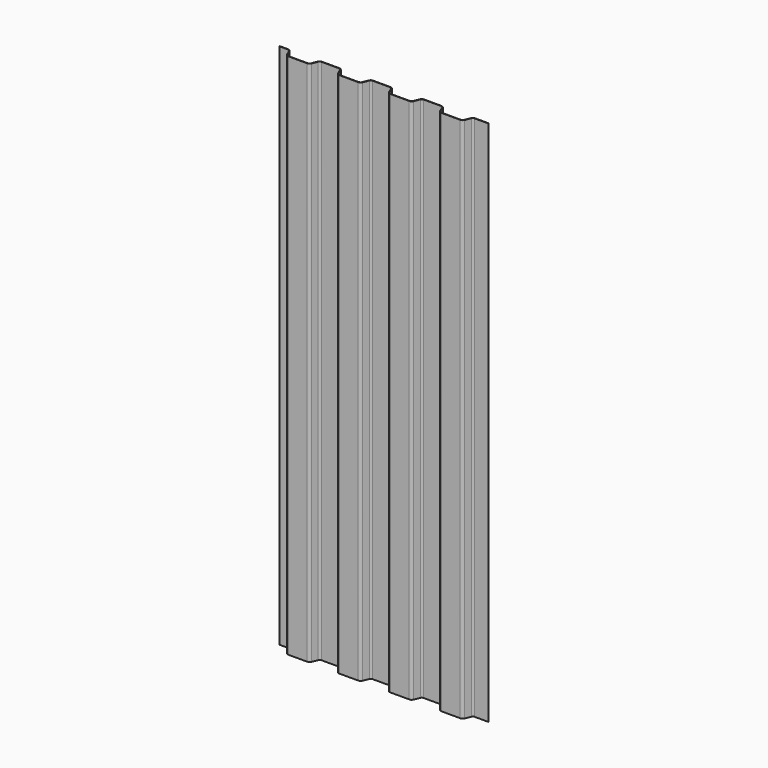
from build123d import *

# Parameters (mm, degrees)
F1_DEPTH = 2580


with BuildPart() as f1:
    # F0 (on Top) → F1 (new body)
    with BuildSketch(Plane.XY):
        with BuildLine():
            Line((42.968165, 45.6), (0, 45.6))
            Line((0, 45.6), (0, 43.6))
            Line((0, 43.6), (42.968165, 43.6))
            ThreePointArc((42.968165, 43.6), (49.362813, 41.658163), (53.597919, 36.488431))
            Line((53.597919, 36.488431), (64.704775, 9.585159))
            ThreePointArc((64.704775, 9.585159), (70.412961, 2.617259), (79.031835, 0))
            Line((79.031835, 0), (170.968165, 0))
            ThreePointArc((170.968165, 0), (179.587039, 2.617259), (185.295225, 9.585159))
            Line((185.295225, 9.585159), (196.402081, 36.488431))
            ThreePointArc((196.402081, 36.488431), (200.637187, 41.658163), (207.031835, 43.6))
            Line((207.031835, 43.6), (292.968165, 43.6))
            ThreePointArc((292.968165, 43.6), (299.362813, 41.658163), (303.597919, 36.488431))
            Line((303.597919, 36.488431), (314.704775, 9.585159))
            ThreePointArc((314.704775, 9.585159), (320.412961, 2.617259), (329.031835, 0))
            Line((329.031835, 0), (420.968165, 0))
            ThreePointArc((420.968165, 0), (429.587039, 2.617259), (435.295225, 9.585159))
            Line((435.295225, 9.585159), (446.402081, 36.488431))
            ThreePointArc((446.402081, 36.488431), (450.637187, 41.658163), (457.031835, 43.6))
            Line((457.031835, 43.6), (542.968165, 43.6))
            ThreePointArc((542.968165, 43.6), (549.362813, 41.658163), (553.597919, 36.488431))
            Line((553.597919, 36.488431), (564.704775, 9.585159))
            ThreePointArc((564.704775, 9.585159), (570.412961, 2.617259), (579.031835, 0))
            Line((579.031835, 0), (670.968165, 0))
            ThreePointArc((670.968165, 0), (679.587039, 2.617259), (685.295225, 9.585159))
            Line((685.295225, 9.585159), (696.402081, 36.488431))
            ThreePointArc((696.402081, 36.488431), (700.637187, 41.658163), (707.031835, 43.6))
            Line((707.031835, 43.6), (792.968165, 43.6))
            ThreePointArc((792.968165, 43.6), (799.362813, 41.658163), (803.597919, 36.488431))
            Line((803.597919, 36.488431), (814.704775, 9.585159))
            ThreePointArc((814.704775, 9.585159), (820.412961, 2.617259), (829.031835, 0))
            Line((829.031835, 0), (920.968165, 0))
            ThreePointArc((920.968165, 0), (929.587039, 2.617259), (935.295225, 9.585159))
            Line((935.295225, 9.585159), (946.402081, 36.488431))
            ThreePointArc((946.402081, 36.488431), (950.637187, 41.658163), (957.031835, 43.6))
            Line((957.031835, 43.6), (1024, 43.6))
            Line((1024, 43.6), (1024, 45.6))
            Line((1024, 45.6), (957.031835, 45.6))
            ThreePointArc((957.031835, 45.6), (949.525074, 43.320452), (944.553428, 37.251636))
            Line((944.553428, 37.251636), (933.446572, 10.348364))
            ThreePointArc((933.446572, 10.348364), (928.474926, 4.279548), (920.968165, 2))
            Line((920.968165, 2), (829.031835, 2))
            ThreePointArc((829.031835, 2), (821.525074, 4.279548), (816.553428, 10.348364))
            Line((816.553428, 10.348364), (805.446572, 37.251636))
            ThreePointArc((805.446572, 37.251636), (800.474926, 43.320452), (792.968165, 45.6))
            Line((792.968165, 45.6), (707.031835, 45.6))
            ThreePointArc((707.031835, 45.6), (699.525074, 43.320452), (694.553428, 37.251636))
            Line((694.553428, 37.251636), (683.446572, 10.348364))
            ThreePointArc((683.446572, 10.348364), (678.474926, 4.279548), (670.968165, 2))
            Line((670.968165, 2), (579.031835, 2))
            ThreePointArc((579.031835, 2), (571.525074, 4.279548), (566.553428, 10.348364))
            Line((566.553428, 10.348364), (555.446572, 37.251636))
            ThreePointArc((555.446572, 37.251636), (550.474926, 43.320452), (542.968165, 45.6))
            Line((542.968165, 45.6), (457.031835, 45.6))
            ThreePointArc((457.031835, 45.6), (449.525074, 43.320452), (444.553428, 37.251636))
            Line((444.553428, 37.251636), (433.446572, 10.348364))
            ThreePointArc((433.446572, 10.348364), (428.474926, 4.279548), (420.968165, 2))
            Line((420.968165, 2), (329.031835, 2))
            ThreePointArc((329.031835, 2), (321.525074, 4.279548), (316.553428, 10.348364))
            Line((316.553428, 10.348364), (305.446572, 37.251636))
            ThreePointArc((305.446572, 37.251636), (300.474926, 43.320452), (292.968165, 45.6))
            Line((292.968165, 45.6), (207.031835, 45.6))
            ThreePointArc((207.031835, 45.6), (199.525074, 43.320452), (194.553428, 37.251636))
            Line((194.553428, 37.251636), (183.446572, 10.348364))
            ThreePointArc((183.446572, 10.348364), (178.474926, 4.279548), (170.968165, 2))
            Line((170.968165, 2), (79.031835, 2))
            ThreePointArc((79.031835, 2), (71.525074, 4.279548), (66.553428, 10.348364))
            Line((66.553428, 10.348364), (55.446572, 37.251636))
            ThreePointArc((55.446572, 37.251636), (50.474926, 43.320452), (42.968165, 45.6))
        make_face()
    extrude(amount=F1_DEPTH)


solid = f1.part
